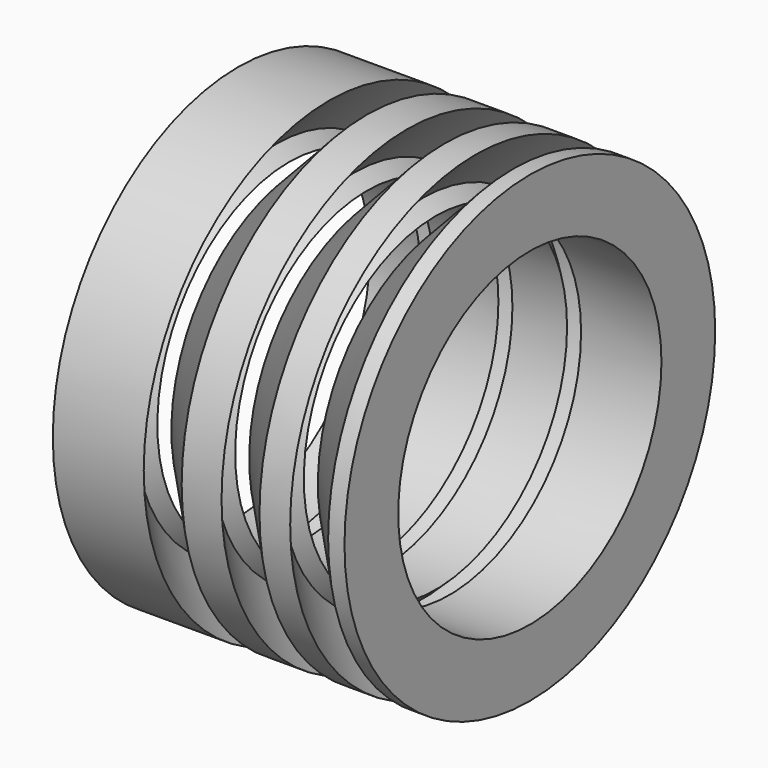
from build123d import *

# Parameters (mm, degrees)
F2_R     = 14.32794
F3_DEPTH = 254


with BuildPart() as f1:
    # F0 (on Front) → F1 (revolve)
    with BuildSketch(Plane.XZ):
        Polygon((-4.782666, 10.08799), (-12.700001, 10.08799), (-12.700001, -8.96201), (-12.700001, -10.08799), (-4.782666, -10.08799), (-9.366052, -5.280859), (-7.635246, -3.630612), (-1.478422, -10.08799), (1.992777, -10.08799), (-2.59061, -5.280859), (-0.859804, -3.630612), (5.297021, -10.08799), (7.971108, -10.08799), (3.387721, -5.280859), (5.118527, -3.630612), (11.275352, -10.08799), (12.699999, -10.08799), (12.699999, -8.96201), (12.699999, 10.08799), (11.275352, 10.08799), (5.118527, 3.630612), (3.387721, 5.280859), (7.971108, 10.08799), (5.297021, 10.08799), (-0.859804, 3.630612), (-2.59061, 5.280859), (1.992777, 10.08799), (-1.478422, 10.08799), (-7.635246, 3.630612), (-9.366052, 5.280859), align=None)
    revolve(axis=Axis((11.987675, 0, -10.08799), (1, 0, 0)))

    # F2 (on face) → F3 (cut)
    with BuildSketch(Plane.YZ.offset(12.699999)):
        with Locations((0, -10.08799)):
            Circle(F2_R)
    extrude(amount=-F3_DEPTH, mode=Mode.SUBTRACT)


solid = f1.part
